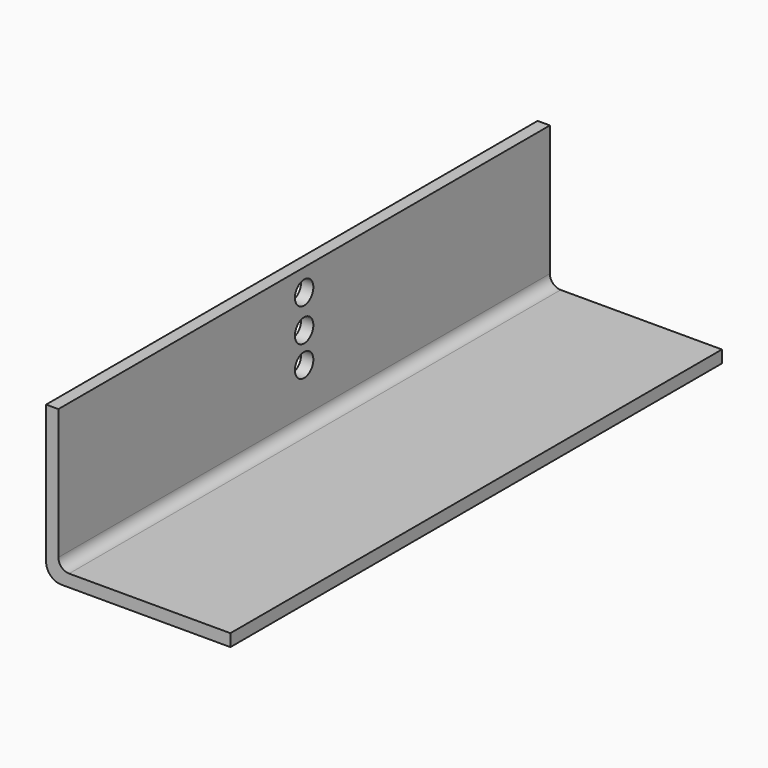
from build123d import *

# Parameters (mm, degrees)
F0_W     = 28.448
F0_H     = 2.032
F0_W_2   = 2.032
F0_H_2   = 23.368
F1_DEPTH = 50.8
F2_R     = 2.54
F3_R     = 1.778
F5_D     = 3.81


with BuildPart() as f1:
    # F0 (on Front) → F1 (new body, symmetric)
    with BuildSketch(Plane.XZ):
        with Locations((-39.1122124221, 13.9883446444)):
            Rectangle(F0_W, F0_H)
        with Locations((-54.3522124221, 13.9883446444)):
            Rectangle(F0_W_2, F0_H)
        with Locations((-54.3522124221, 26.6883446444)):
            Rectangle(F0_W_2, F0_H_2)
    extrude(amount=F1_DEPTH, both=True)

    # F2
    f2_edges = [f1.edges().sort_by_distance(p)[0] for p in [
        (-55.368212, 0, 12.972345),
    ]]
    fillet(f2_edges, radius=F2_R)

    # F3
    f3_edges = [f1.edges().sort_by_distance(p)[0] for p in [
        (-53.336212, 0, 15.004345),
    ]]
    fillet(f3_edges, radius=F3_R)

    # F5 (through all)
    with Locations(Plane.YZ):
        with Locations((0, 34.6949249506), (0, 29.1896369308), (0, 24.1528842598)):
            Hole(F5_D / 2)


solid = f1.part
